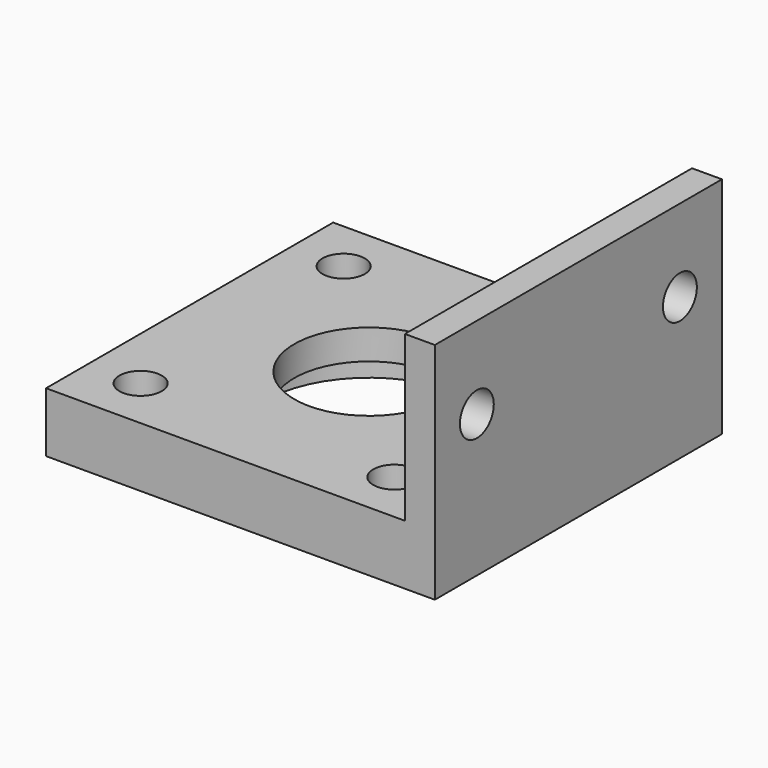
from build123d import *

# Parameters (mm, degrees)
F0_W      = 3.175
F0_H      = 38.1
F1_DEPTH  = 23.8125
F0_W_2    = 38.1
F0_R      = 11.1125
F0_R_2    = 7.9375
F2_DEPTH  = 6.35
F4_D      = 4.4958
F5_D      = 4.4958
F6_D      = 4.4958
F7_D      = 4.4958
F8_D      = 4.4958
F9_D      = 4.4958
F10_DEPTH = 3.175


with BuildPart() as f1:
    # F0 (on Top) → F1 (new body)
    with BuildSketch(Plane.XY):
        with Locations((19.05, 0)):
            Rectangle(F0_W, F0_H)
    extrude(amount=F1_DEPTH)

    # F0 (on Top) → F2 (join)
    with BuildSketch(Plane.XY):
        with Locations((-1.5875, 0)):
            Rectangle(F0_W_2, F0_H)
        with Locations((-1.5875, 0)):
            Circle(F0_R, mode=Mode.SUBTRACT)
        with Locations((-1.5875, 0)):
            Circle(F0_R)
        with Locations((-1.5875, 0)):
            Circle(F0_R_2, mode=Mode.SUBTRACT)
    extrude(amount=F2_DEPTH)

    # F4 (through all)
    with Locations(Plane(origin=(0, 0, 0), x_dir=(1, 0, 0), z_dir=(0, 0, -1))):
        with Locations((-15.0622, 13.4747)):
            Hole(F4_D / 2)

    # F5 (through all)
    with Locations(Plane(origin=(0, 0, 0), x_dir=(1, 0, 0), z_dir=(0, 0, -1))):
        with Locations((-15.0622, -13.4747)):
            Hole(F5_D / 2)

    # F6 (through all)
    with Locations(Plane(origin=(0, 0, 0), x_dir=(1, 0, 0), z_dir=(0, 0, -1))):
        with Locations((11.8872, -13.4747)):
            Hole(F6_D / 2)

    # F7 (through all)
    with Locations(Plane(origin=(0, 0, 0), x_dir=(1, 0, 0), z_dir=(0, 0, -1))):
        with Locations((11.8872, 13.4747)):
            Hole(F7_D / 2)

    # F8 (through all)
    with Locations(Plane(origin=(17.4625, 0, 0), x_dir=(0, -1, 0), z_dir=(-1, 0, 0))):
        with Locations((-13.4747, 15.08125)):
            Hole(F8_D / 2)

    # F9 (through all)
    with Locations(Plane(origin=(17.4625, 0, 0), x_dir=(0, -1, 0), z_dir=(-1, 0, 0))):
        with Locations((13.4747, 15.08125)):
            Hole(F9_D / 2)

    # F0 (on Top) → F10 (cut)
    with BuildSketch(Plane.XY):
        with Locations((-1.5875, 0)):
            Circle(F0_R)
        with Locations((-1.5875, 0)):
            Circle(F0_R_2, mode=Mode.SUBTRACT)
    extrude(amount=F10_DEPTH, mode=Mode.SUBTRACT)


solid = f1.part
